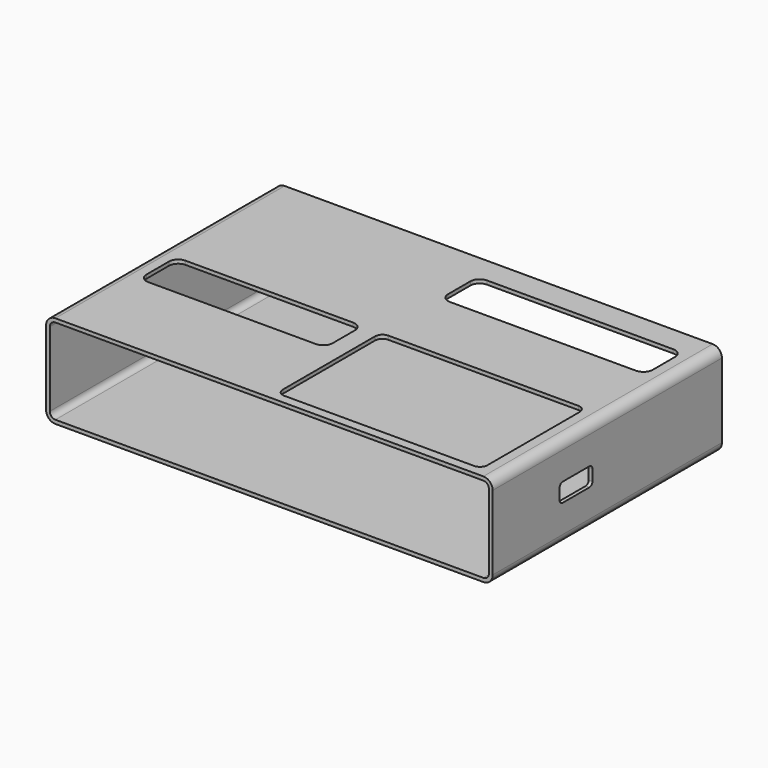
from build123d import *

# Parameters (mm, degrees)
PAD001_DEPTH    = 154
POCKET_DEPTH    = 5
POCKET001_DEPTH = 5


with BuildPart() as part:
    # Sketch001 (on XZ_Plane001 of Origin002) → Pad001 (new body)
    with BuildSketch(Plane.XZ):
        with BuildLine():
            Line((-120, 20), (-120, -20))
            ThreePointArc((-120, -20), (-118.535534, -23.535534), (-115, -25))
            Line((-115, -25), (115, -25))
            ThreePointArc((115, -25), (118.535534, -23.535534), (120, -20))
            Line((120, -20), (120, 20))
            ThreePointArc((120, 20), (118.535534, 23.535534), (115, 25))
            Line((115, 25), (-115, 25))
            ThreePointArc((-115, 25), (-118.535534, 23.535534), (-120, 20))
        make_face()
        with BuildLine():
            Line((-118, 20), (-118, -20))
            ThreePointArc((-118, -20), (-117.12132, -22.12132), (-115, -23))
            Line((-115, -23), (115, -23))
            ThreePointArc((115, -23), (117.12132, -22.12132), (118, -20))
            Line((118, -20), (118, 20))
            ThreePointArc((118, 20), (117.12132, 22.12132), (115, 23))
            Line((115, 23), (-115, 23))
            ThreePointArc((-115, 23), (-117.12132, 22.12132), (-118, 20))
        make_face(mode=Mode.SUBTRACT)
    extrude(amount=-PAD001_DEPTH)

    # Sketch003 (on Face7 of Pad001) → Pocket (cut)
    with BuildSketch(Plane.XY.offset(25)):
        with BuildLine():
            Line((106, 75), (4, 75))
            ThreePointArc((4, 75), (1.171573, 73.828427), (0, 71))
            Line((0, 71), (0, 9))
            ThreePointArc((0, 9), (1.171573, 6.171573), (4, 5))
            Line((4, 5), (106, 5))
            ThreePointArc((106, 5), (108.828427, 6.171573), (110, 9))
            Line((110, 9), (110, 71))
            ThreePointArc((110, 71), (108.828427, 73.828427), (106, 75))
        make_face()
        with BuildLine():
            Line((-110, 70), (-110, 55))
            ThreePointArc((-110, 55), (-108.535534, 51.464466), (-105, 50))
            Line((-105, 50), (-15, 50))
            ThreePointArc((-15, 50), (-11.464466, 51.464466), (-10, 55))
            Line((-10, 55), (-10, 70))
            ThreePointArc((-10, 70), (-11.464466, 73.535534), (-15, 75))
            Line((-15, 75), (-105, 75))
            ThreePointArc((-105, 75), (-108.535534, 73.535534), (-110, 70))
        make_face()
        with BuildLine():
            Line((0, 135), (0, 120))
            ThreePointArc((0, 120), (1.464466, 116.464466), (5, 115))
            Line((5, 115), (105, 115))
            ThreePointArc((105, 115), (108.535534, 116.464466), (110, 120))
            Line((110, 120), (110, 135))
            ThreePointArc((110, 135), (108.535534, 138.535534), (105, 140))
            Line((105, 140), (5, 140))
            ThreePointArc((5, 140), (1.464466, 138.535534), (0, 135))
        make_face()
    extrude(amount=-POCKET_DEPTH, mode=Mode.SUBTRACT)

    # Sketch004 (on Face9 of Pocket) → Pocket001 (cut)
    with BuildSketch(Plane.YZ.offset(120)):
        with BuildLine():
            Line((45, 3), (45, -3))
            ThreePointArc((45, -3), (45.585786, -4.414214), (47, -5))
            Line((47, -5), (65, -5))
            ThreePointArc((65, -5), (66.414214, -4.414214), (67, -3))
            Line((67, -3), (67, 3))
            ThreePointArc((67, 3), (66.414214, 4.414214), (65, 5))
            Line((65, 5), (47, 5))
            ThreePointArc((47, 5), (45.585786, 4.414214), (45, 3))
        make_face()
    extrude(amount=-POCKET001_DEPTH, mode=Mode.SUBTRACT)


solid = part.part
